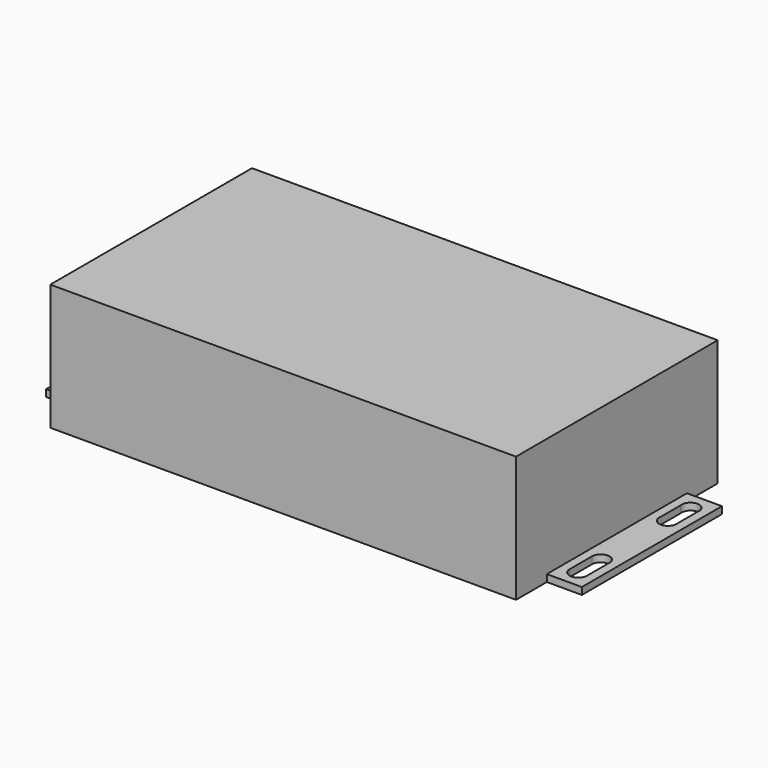
from build123d import *

# Parameters (mm, degrees)
F0_W     = 133
F0_H     = 72
F1_DEPTH = 36
F2_W     = 10
F2_H     = 50
F3_DEPTH = 2
F5_DEPTH = 2


with BuildPart() as f1:
    # F0 (on Top) → F1 (new body)
    with BuildSketch(Plane.XY):
        Rectangle(F0_W, F0_H)
    extrude(amount=F1_DEPTH)

    # F2 (on face) → F3 (join)
    with BuildSketch(Plane(origin=(0, 0, 0), x_dir=(1, 0, 0), z_dir=(0, 0, -1))):
        with Locations((-71.5, 0)):
            Rectangle(F2_W, F2_H)
        with BuildLine():
            ThreePointArc((-69, -20), (-71.627534, -22.496745), (-73.986988, -19.745264))
            Line((-73.986988, -19.745264), (-73.986988, -12.254736))
            ThreePointArc((-73.986988, -12.254736), (-74, -12), (-73.986988, -11.745264))
            ThreePointArc((-73.986988, -11.745264), (-71.372466, -9.503255), (-69, -12))
            Line((-69, -12), (-69, -20))
        make_face(mode=Mode.SUBTRACT)
        with BuildLine():
            ThreePointArc((-73.944746, 19.477297), (-71.5, 22.5), (-69.055254, 19.477297))
            Line((-69.055254, 19.477297), (-69.055254, 12.522703))
            ThreePointArc((-69.055254, 12.522703), (-71.5, 9.5), (-73.944746, 12.522703))
            Line((-73.944746, 12.522703), (-73.944746, 19.477297))
        make_face(mode=Mode.SUBTRACT)
    extrude(amount=-F3_DEPTH)

    # F4 (on face) → F5 (join)
    with BuildSketch(Plane(origin=(0, 0, 0), x_dir=(1, 0, 0), z_dir=(0, 0, -1))):
        Polygon((66.5, 0), (66.5, -25), (76.5, -25), (76.5, 25), (66.5, 25), align=None)
        with BuildLine():
            ThreePointArc((73.944746, -19.477297), (71.5, -22.5), (69.055254, -19.477297))
            Line((69.055254, -19.477297), (69.055254, -12.522703))
            ThreePointArc((69.055254, -12.522703), (71.5, -9.5), (73.944746, -12.522703))
            Line((73.944746, -12.522703), (73.944746, -19.477297))
        make_face(mode=Mode.SUBTRACT)
        with BuildLine():
            ThreePointArc((69, 20), (71.627534, 22.496745), (73.986988, 19.745264))
            Line((73.986988, 19.745264), (73.986988, 12.254736))
            ThreePointArc((73.986988, 12.254736), (74, 12), (73.986988, 11.745264))
            ThreePointArc((73.986988, 11.745264), (71.372466, 9.503255), (69, 12))
            Line((69, 12), (69, 20))
        make_face(mode=Mode.SUBTRACT)
    extrude(amount=-F5_DEPTH)


solid = f1.part
